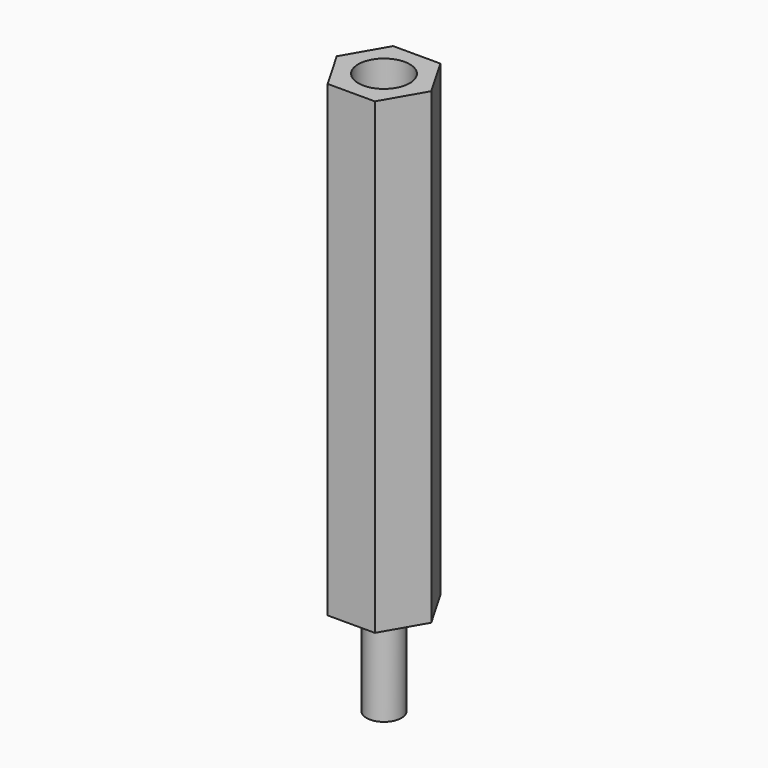
from build123d import *

# Parameters (mm, degrees)
F0_R     = 1.5
F1_DEPTH = 40
F2_DEPTH = 8
F4_D     = 4.4
F4_DEPTH = 9
F4_TIP   = 1.3218933619


with BuildPart() as f1:
    # F0 (on Top) → F1 (new body)
    with BuildSketch(Plane.XY):
        Polygon((4.0414518843, 0), (2.0207259422, 3.5), (-2.0207259422, 3.5), (-4.0414518843, 0), (-2.0207259422, -3.5), (2.0207259422, -3.5), align=None)
        Circle(F0_R, mode=Mode.SUBTRACT)
        Circle(F0_R)
    extrude(amount=F1_DEPTH)

    # F0 (on Top) → F2 (join)
    with BuildSketch(Plane.XY):
        Circle(F0_R)
    extrude(amount=-F2_DEPTH)

    # F4
    with Locations(Plane.XY.offset(40)):
        with Locations((0, 0)):
            Hole(F4_D / 2, depth=F4_DEPTH)
            with Locations((0, 0, -(F4_DEPTH + F4_TIP / 2))):  # 118° drill point
                Cone(0, F4_D / 2, F4_TIP, mode=Mode.SUBTRACT)


solid = f1.part
